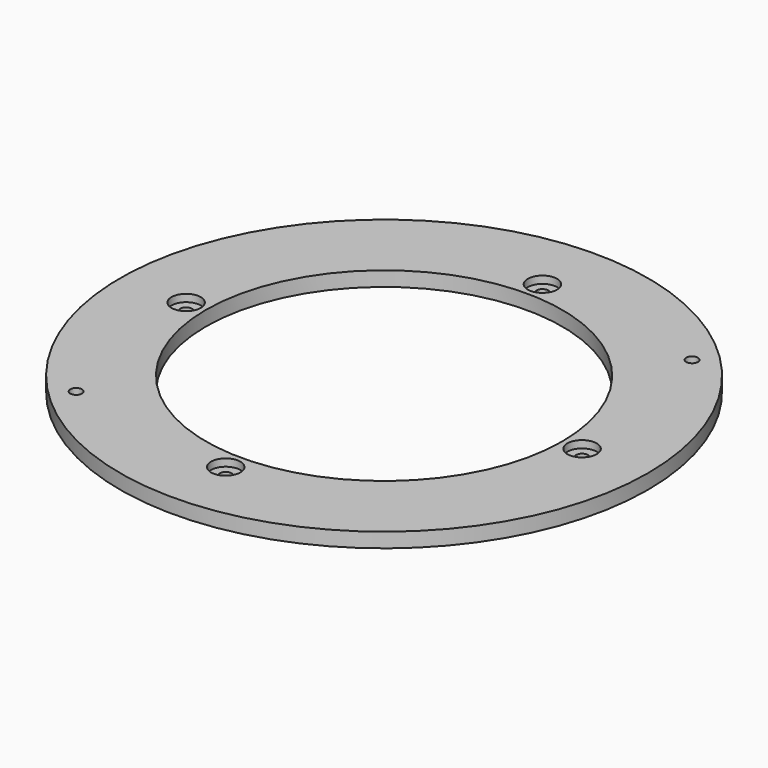
from build123d import *

# Parameters (mm, degrees)
SKETCH_R     = 90
SKETCH_R_2   = 60.75
SKETCH_R_3   = 2
PAD_DEPTH    = 5
SKETCH001_R  = 5
POCKET_DEPTH = 2.5


with BuildPart() as part:
    # Sketch → Pad (new body)
    with BuildSketch(Plane.XY):
        Circle(SKETCH_R)
        Circle(SKETCH_R_2, mode=Mode.SUBTRACT)
        with Locations((0, 67.5)):
            Circle(SKETCH_R_3, mode=Mode.SUBTRACT)
        with Locations((67.5, 0)):
            Circle(SKETCH_R_3, mode=Mode.SUBTRACT)
        with Locations((0, -67.5)):
            Circle(SKETCH_R_3, mode=Mode.SUBTRACT)
        with Locations((-67.5, 0)):
            Circle(SKETCH_R_3, mode=Mode.SUBTRACT)
        with Locations((-58.336309, -58.336309)):
            Circle(SKETCH_R_3, mode=Mode.SUBTRACT)
        with Locations((58.336309, 58.336309)):
            Circle(SKETCH_R_3, mode=Mode.SUBTRACT)
    extrude(amount=PAD_DEPTH)

    # Sketch001 (on Face10 of Pad) → Pocket (cut)
    with BuildSketch(Plane.XY.offset(5)):
        with Locations((67.5, 0)):
            Circle(SKETCH001_R)
        with Locations((0, 67.5)):
            Circle(SKETCH001_R)
        with Locations((-67.5, 0)):
            Circle(SKETCH001_R)
        with Locations((0, -67.5)):
            Circle(SKETCH001_R)
    extrude(amount=-POCKET_DEPTH, mode=Mode.SUBTRACT)


solid = part.part
